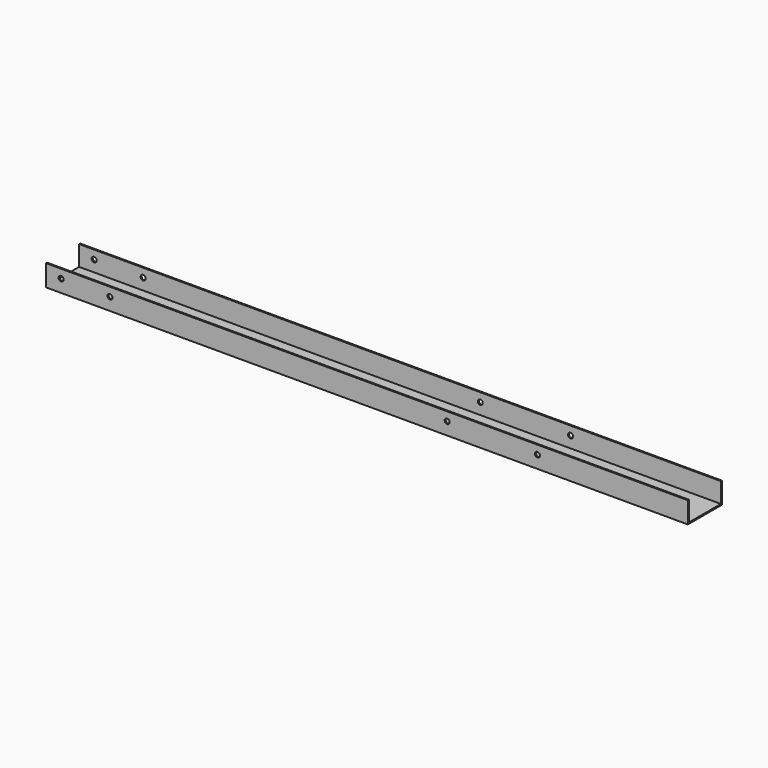
from build123d import *

# Parameters (mm, degrees)
F0_W     = 406.4
F0_H     = 26.9875
F1_DEPTH = 0.79375
F2_W     = 406.4
F2_H     = 0.79375
F3_DEPTH = 12.7
F4_R     = 1.5875
F5_DEPTH = 26.9885
F6_R     = 6.35
F6_R_2   = 2.38125
F7_DEPTH = 25.4


with BuildPart() as f1:
    # F0 (on Top) → F1 (new body)
    with BuildSketch(Plane.XY):
        with Locations((203.2, 13.49375)):
            Rectangle(F0_W, F0_H)
    extrude(amount=F1_DEPTH)

    # F2 (on face) → F3 (join)
    with BuildSketch(Plane.XY.offset(0.79375)):
        with Locations((203.2, 26.590625)):
            Rectangle(F2_W, F2_H)
        with Locations((203.2, 0.396875)):
            Rectangle(F2_W, F2_H)
    extrude(amount=F3_DEPTH)

    # F4 (on face) → F5 (cut, through all)
    with BuildSketch(Plane.XZ):
        with Locations((311.15, 7.9375)):
            Circle(F4_R)
        with Locations((254, 7.9375)):
            Circle(F4_R)
        with Locations((40.48125, 7.9375)):
            Circle(F4_R)
        with Locations((9.525, 7.9375)):
            Circle(F4_R)
    extrude(amount=-F5_DEPTH, mode=Mode.SUBTRACT)

    # F6 (on face) → F7 (cut)
    with BuildSketch(Plane.XY.offset(0.79375)):
        with Locations((254, 13.49375)):
            Circle(F6_R)
        with Locations((361.95, 13.49375)):
            Circle(F6_R_2)
    extrude(amount=-F7_DEPTH, mode=Mode.SUBTRACT)


solid = f1.part
